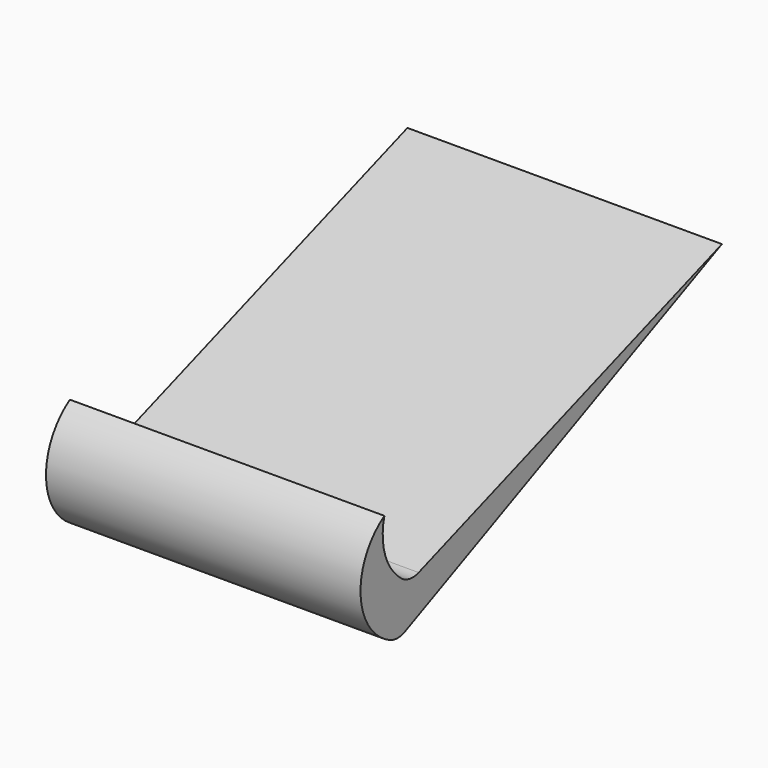
from build123d import *

# Parameters (mm, degrees)
F1_DEPTH = 88.9


with BuildPart() as f1:
    # F0 (on Right) → F1 (new body)
    with BuildSketch(Plane.YZ):
        with BuildLine():
            ThreePointArc((-32.662655, 15.440298), (-38.465343, 23.557587), (-38.769789, 33.530996))
            ThreePointArc((-38.769789, 33.530996), (-47.167676, 17.086921), (-36.802551, 1.806337))
            ThreePointArc((-36.802551, 1.806337), (-34.138246, 1.199843), (-31.465744, 1.769124))
            Line((-31.465744, 1.769124), (80.485985, 52.669767))
            Line((80.485985, 52.669767), (-26.662719, 14.49403))
            ThreePointArc((-26.662719, 14.49403), (-29.783168, 14.20324), (-32.662655, 15.440298))
        make_face()
    extrude(amount=F1_DEPTH)


solid = f1.part
